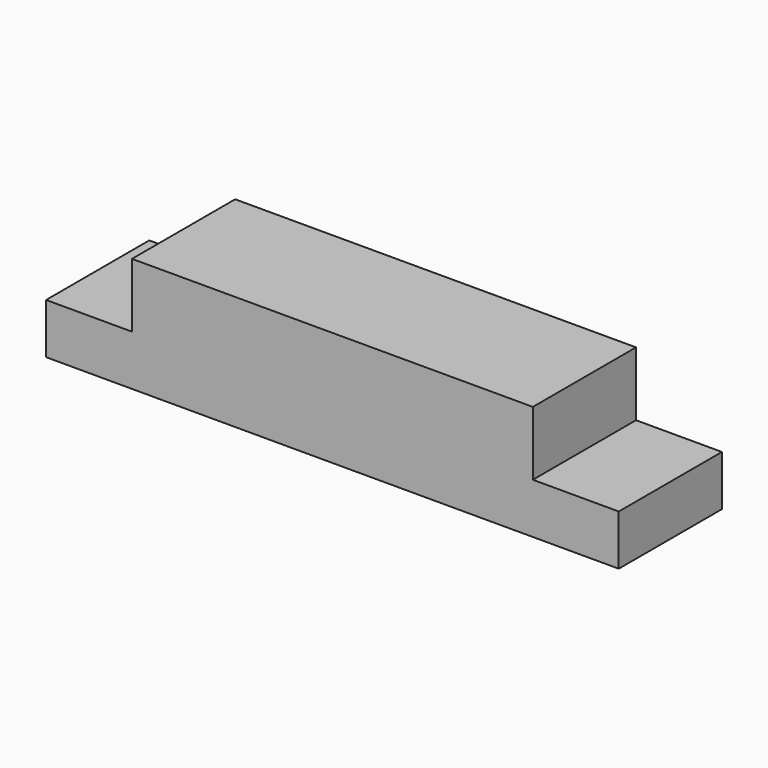
from build123d import *

# Parameters (mm, degrees)
F0_W     = 44.45
F0_H     = 14.3002
F1_DEPTH = 12.7
F0_W_2   = 9.525
F2_DEPTH = 5.588


with BuildPart() as f1:
    # F0 (on Top) → F1 (new body)
    with BuildSketch(Plane.XY):
        with Locations((31.75, 7.1501)):
            Rectangle(F0_W, F0_H)
    extrude(amount=F1_DEPTH)

    # F0 (on Top) → F2 (join)
    with BuildSketch(Plane.XY):
        with Locations((4.7625, 7.1501)):
            Rectangle(F0_W_2, F0_H)
        with Locations((58.7375, 7.1501)):
            Rectangle(F0_W_2, F0_H)
    extrude(amount=F2_DEPTH)


solid = f1.part
